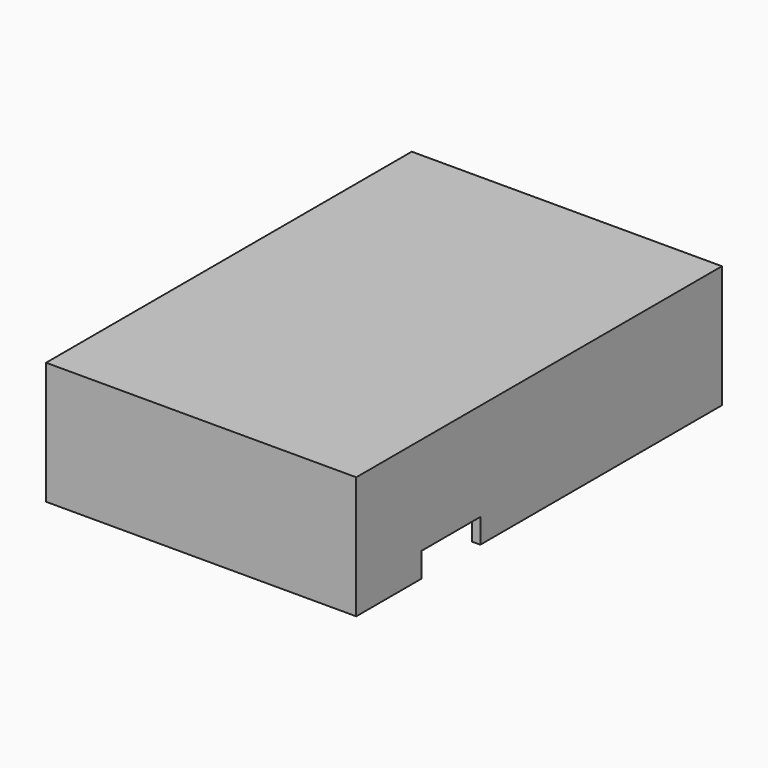
from build123d import *

# Parameters (mm, degrees)
SKETCH030_W     = 38
SKETCH030_H     = 56
PAD017_DEPTH    = 15
SKETCH031_W     = 36
SKETCH031_H     = 54
POCKET007_DEPTH = 14
SKETCH033_R     = 2.4
SKETCH033_R_2   = 1.55
PAD019_DEPTH    = 9
SKETCH038_W     = 9
SKETCH038_H     = 3
POCKET010_DEPTH = 5


with BuildPart() as part:
    # Sketch030 → Pad017 (new body)
    with BuildSketch(Plane.XY):
        Rectangle(SKETCH030_W, SKETCH030_H)
    extrude(amount=PAD017_DEPTH)

    # Sketch031 (on Face5 of Pad017) → Pocket007 (cut)
    with BuildSketch(Plane(origin=(0, 0, 0), x_dir=(1, 0, 0), z_dir=(0, 0, -1))):
        Rectangle(SKETCH031_W, SKETCH031_H)
    extrude(amount=-POCKET007_DEPTH, mode=Mode.SUBTRACT)

    # Sketch033 (on Face11 of Pocket007) → Pad019 (join)
    with BuildSketch(Plane(origin=(0, 0, 14), x_dir=(1, 0, 0), z_dir=(0, 0, -1))):
        with Locations((0, 14.65)):
            Circle(SKETCH033_R)
        with Locations((0, 14.65)):
            Circle(SKETCH033_R_2, mode=Mode.SUBTRACT)
    pad019 = extrude(amount=PAD019_DEPTH)

    # Mirrored009: Pad019 across XZ
    add(pad019.mirror(Plane.XZ))

    # Sketch038 (on Face3 of Mirrored009) → Pocket010 (cut)
    with BuildSketch(Plane.YZ.offset(19)):
        with Locations((-13.5, 1.5)):
            Rectangle(SKETCH038_W, SKETCH038_H)
    extrude(amount=-POCKET010_DEPTH, mode=Mode.SUBTRACT)


with BuildPart() as part_1:
    # Body007 placement: moved
    add(part.part.moved(Location((0, 0, 6.6))))


solid = part_1.part
